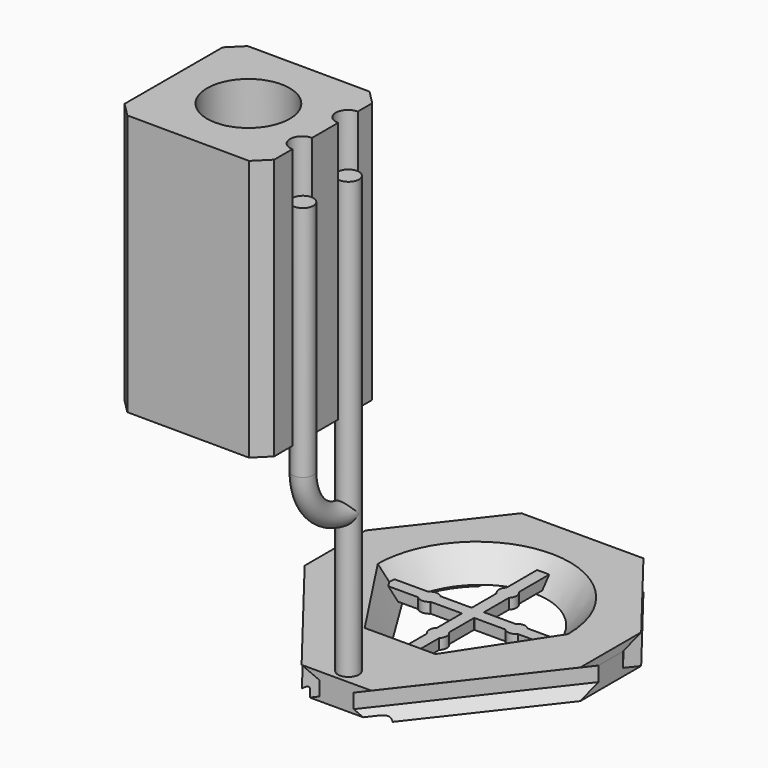
from build123d import *

# Parameters (mm, degrees)
POCKET_DEPTH         = 0.254
POCKET002_DEPTH      = 9.9703958884
POCKET002_DEPTH_BACK = 12.421886656
PAD_DEPTH            = 0.762
SKETCH025_R          = 0.762
PAD001_DEPTH         = 31.75
SKETCH038_R          = 0.762
SKETCH031_W          = 10.922
SKETCH031_H          = 19.05
PAD003_DEPTH         = 5.461
SKETCH033_R          = 3.0099
POCKET004_DEPTH      = 7.239
SKETCH035_R          = 1.651
POCKET005_DEPTH      = 19.0843950009
SKETCH036_R          = 2.7305
POCKET006_DEPTH      = 7.62
SKETCH039_R          = 0.889
POCKET007_DEPTH      = 19.0843950009
CHAMFER_SIZE         = 1.016


with BuildPart() as body:
    # Sketch → AdditiveLoft section 0
    with BuildSketch(Plane.XY):
        Polygon((-4.445, 9.9693957882), (4.445, 9.9693957882), (10.037318, 2.7727994909), (10.037318, -2.7727994909), (2.54, -12.420886556), (-2.54, -12.420886556), (-10.037318, -2.7727994909), (-10.037318, 2.7727994909), align=None)
    # Sketch028 → AdditiveLoft section 1
    with BuildSketch(Plane.XY.offset(0.548386)):
        Polygon((-10.037318, 1.1169878444), (-3.1583048885, 9.9693957884), (3.1583048885, 9.9693957884), (10.037318, 1.1169878444), (10.037318, -1.1169878444), (1.2533048885, -12.420886556), (-1.2533048885, -12.420886556), (-10.037318, -1.1169878444), align=None)
    # Sketch029 → AdditiveLoft section 2
    with BuildSketch(Plane.XY.offset(1.610614)):
        Polygon((-10.037318, 1.1169878444), (-3.1583048885, 9.9693957884), (3.1583048885, 9.9693957884), (10.037318, 1.1169878444), (10.037318, -1.1169878444), (1.2533048885, -12.420886556), (-1.2533048885, -12.420886556), (-10.037318, -1.1169878444), align=None)
    # Sketch019 → AdditiveLoft section 3
    with BuildSketch(Plane.XY.offset(2.159)):
        Polygon((-4.445, 9.9693957881), (4.445, 9.9693957881), (10.0372950691, 2.772829), (10.0372950691, -2.772829), (2.54, -12.420886556), (-2.54, -12.420886556), (-10.0372950691, -2.772829), (-10.0372950691, 2.772829), align=None)
    loft(ruled=True)

    # Sketch013 → SubtractiveLoft section 0
    with BuildSketch(Plane.XY.offset(2.159)):
        with BuildLine():
            Line((-6.928, 0), (-2.5779523071, -6.630990285))
            Line((-2.5779523071, -6.630990285), (2.5779523071, -6.630990285))
            Line((2.5779523071, -6.630990285), (6.928, 0))
            add(Edge.make_bspline(
                [(6.928, 0), (6.928, 7.144), (0, 7.144), (-6.928, 7.144), (-6.928, 0)],
                knots=[4.7123889804, 4.7123889804, 4.7123889804, 6.2831853072, 6.2831853072, 7.853981634, 7.853981634, 7.853981634], degree=2, weights=[1, 0.7071067812, 1, 0.7071067812, 1]))
        make_face()
    # Sketch014 → SubtractiveLoft section 1
    with BuildSketch(Plane(origin=(0, 0, 0), x_dir=(1, 0, 0), z_dir=(0, 0, -1))):
        with BuildLine():
            Line((-4.896, 0), (-1.8850102669, 4.9449640478))
            Line((-1.8850102669, 4.9449640478), (1.8850102669, 4.9449640478))
            Line((1.8850102669, 4.9449640478), (4.896, 0))
            add(Edge.make_bspline(
                [(-4.896, 0), (-4.896, -5.358), (0, -5.358), (4.896, -5.358), (4.896, 0)],
                knots=[4.7123889804, 4.7123889804, 4.7123889804, 6.2831853072, 6.2831853072, 7.853981634, 7.853981634, 7.853981634], degree=2, weights=[1, 0.7071067812, 1, 0.7071067812, 1]))
        make_face()
    loft(mode=Mode.SUBTRACT)

    # Sketch006 (on Face1 of SubtractiveLoft) → Pocket (cut)
    with BuildSketch(Plane(origin=(0, 0, 0), x_dir=(1, 0, 0), z_dir=(0, 0, -1))):
        with BuildLine():
            Line((-5.3856, 0), (-2.0735112936, 5.4394604526))
            Line((-2.0735112936, 5.4394604526), (2.0735112936, 5.4394604526))
            Line((2.0735112936, 5.4394604526), (5.3856, 0))
            add(Edge.make_bspline(
                [(-5.3856, 0), (-5.3856, -5.8938), (0, -5.8938), (5.3856, -5.8938), (5.3856, 0)],
                knots=[4.7123889804, 4.7123889804, 4.7123889804, 6.2831853072, 6.2831853072, 7.853981634, 7.853981634, 7.853981634], degree=2, weights=[1, 0.7071067812, 1, 0.7071067812, 1]))
        make_face()
    extrude(amount=-POCKET_DEPTH, mode=Mode.SUBTRACT)

    # Sketch022 → Pocket002 (cut, two sides)
    with BuildSketch(Plane.XZ) as pocket002_sk:
        with BuildLine():
            ThreePointArc((-2.54, 0.254), (-2.9416092628, 0.1888277885), (-3.302, 0))
            Line((-3.302, 0), (3.302, 0))
            ThreePointArc((3.302, 0), (2.9416092628, 0.1888277885), (2.54, 0.254))
            Line((-2.54, 0.254), (2.54, 0.254))
        make_face()
    extrude(amount=-POCKET002_DEPTH, mode=Mode.SUBTRACT)
    extrude(pocket002_sk.sketch, amount=POCKET002_DEPTH_BACK, mode=Mode.SUBTRACT)

    # Sketch018 → Pad (join)
    with BuildSketch(Plane.XY.offset(0.508)):
        with BuildLine():
            Line((-3.6284807052, 0.4445), (-7.62, 0.4445))
            Line((-7.62, 0.4445), (-7.62, -0.4445))
            Line((-7.62, -0.4445), (-3.6284807052, -0.4445))
            ThreePointArc((-3.6284807052, -0.4445), (-3.175, -0.635), (-2.7215192948, -0.4445))
            Line((-2.7215192948, -0.4445), (-0.4534807052, -0.4445))
            ThreePointArc((-0.4534807052, -0.4445), (-0.4490128061, -0.4490128061), (-0.4445, -0.4534807052))
            Line((-0.4445, -0.4534807052), (-0.4445, -2.7215192948))
            ThreePointArc((-0.4445, -2.7215192948), (-0.635, -3.175), (-0.4445, -3.6284807052))
            Line((-0.4445, -3.6284807052), (-0.4445, -10.16))
            Line((-0.4445, -10.16), (0.4445, -10.16))
            Line((0.4445, -10.16), (0.4445, -3.6284807052))
            ThreePointArc((0.4445, -3.6284807052), (0.635, -3.175), (0.4445, -2.7215192948))
            Line((0.4445, -2.7215192948), (0.4445, -0.4534807052))
            ThreePointArc((0.4445, -0.4534807052), (0.4490128061, -0.4490128061), (0.4534807052, -0.4445))
            Line((0.4534807052, -0.4445), (2.7215192948, -0.4445))
            ThreePointArc((2.7215192948, -0.4445), (3.175, -0.635), (3.6284807052, -0.4445))
            Line((7.62, -0.4445), (3.6284807052, -0.4445))
            Line((7.62, 0.4445), (7.62, -0.4445))
            Line((3.6284807052, 0.4445), (7.62, 0.4445))
            ThreePointArc((3.6284807052, 0.4445), (3.175, 0.635), (2.7215192948, 0.4445))
            Line((0.4534807052, 0.4445), (2.7215192948, 0.4445))
            ThreePointArc((0.4534807052, 0.4445), (0.4490128061, 0.4490128061), (0.4445, 0.4534807052))
            Line((0.4445, 0.4534807052), (0.4445, 2.7215192948))
            ThreePointArc((0.4445, 2.7215192948), (0.635, 3.175), (0.4445, 3.6284807052))
            Line((0.4445, 7.239), (0.4445, 3.6284807052))
            Line((-0.4445, 7.239), (0.4445, 7.239))
            Line((-0.4445, 3.6284807052), (-0.4445, 7.239))
            ThreePointArc((-0.4445, 3.6284807052), (-0.635, 3.175), (-0.4445, 2.7215192948))
            Line((-0.4445, 0.4534807052), (-0.4445, 2.7215192948))
            ThreePointArc((-0.4445, 0.4534807052), (-0.4490128061, 0.4490128061), (-0.4534807052, 0.4445))
            Line((-2.7215192948, 0.4445), (-0.4534807052, 0.4445))
            ThreePointArc((-2.7215192948, 0.4445), (-3.175, 0.635), (-3.6284807052, 0.4445))
        make_face()
    extrude(amount=PAD_DEPTH)

    # Sketch025 (on Face41 of Pad) → Pad001 (join)
    with BuildSketch(Plane.XY.offset(2.159)):
        with Locations((0, -11.3284)):
            Circle(SKETCH025_R)
    extrude(amount=PAD001_DEPTH)

    # AdditivePipe: sweep along a path in Sketch037
    with BuildLine(Plane.YZ) as additivepipe_path:
        ThreePointArc((-11.3284, 12.4883333333), (-14.2619503329, 13.7034496671), (-15.4770666667, 16.637))
        Line((-15.4770666667, 16.637), (-15.4770666667, 33.909))
    # Sketch038 (on Face78 of Pad001) → AdditivePipe (sweep)
    with BuildSketch(Plane.XY.offset(33.909)):
        with Locations((0, -15.4770666667)):
            Circle(SKETCH038_R)
    sweep(path=additivepipe_path.line)


with BuildPart() as body_1:
    # Body placement: moved
    add(body.part.moved(Location((5.461, 0, 0))))


with BuildPart() as attachment_square:
    # Sketch031 → Pad003 (new body, symmetric)
    with BuildSketch(Plane(origin=(0, 0, 0), x_dir=(0.0030576028, 0.999994164, 0.0015241358), z_dir=(0.999994164, -0.0030552726, -0.0015288014))):
        with Locations((-13.572058, 28.194)):
            Rectangle(SKETCH031_W, SKETCH031_H)
    extrude(amount=PAD003_DEPTH, both=True)

    # Sketch033 → Pocket004 (cut)
    with BuildSketch(Plane(origin=(0.0574888784, -0.0576648591, 37.7189121104), x_dir=(-0.0030576028, -0.999994164, -0.0015241358), z_dir=(0.0015241358, -0.0015288014, 0.9999976699))):
        with Locations((13.5720582, 0)):
            Circle(SKETCH033_R)
    extrude(amount=-POCKET004_DEPTH, mode=Mode.SUBTRACT)

    # Sketch035 (on Face1 of Pocket004) → Pocket005 (cut, through all)
    with BuildSketch(Plane(origin=(0.0574888784, -0.0576648591, 37.7189121104), x_dir=(-0.0030576028, -0.999994164, -0.0015241358), z_dir=(0.0015241358, -0.0015288014, 0.9999976699))):
        with Locations((13.5720582, 0)):
            Circle(SKETCH035_R)
    extrude(amount=-POCKET005_DEPTH, mode=Mode.SUBTRACT)

    # Sketch036 (on Face7 of Pocket005) → Pocket006 (cut)
    with BuildSketch(Plane(origin=(0.0284540913, -0.0285411929, 18.6689564991), x_dir=(0.0030576028, 0.999994164, 0.0015241358), z_dir=(-0.0015241358, 0.0015288014, -0.9999976699))):
        with Locations((-13.5720582, 0)):
            Circle(SKETCH036_R)
    extrude(amount=-POCKET006_DEPTH, mode=Mode.SUBTRACT)

    # Sketch039 (on Face7 of Pocket006) → Pocket007 (cut, through all)
    with BuildSketch(Plane(origin=(0.0284540913, -0.0285411929, 18.6689564991), x_dir=(0.0030576028, 0.999994164, 0.0015241358), z_dir=(-0.0015241358, 0.0015288014, -0.9999976699))):
        with Locations((-15.4770666667, 5.461)):
            Circle(SKETCH039_R)
        with Locations((-11.3284, 5.461)):
            Circle(SKETCH039_R)
    extrude(amount=-POCKET007_DEPTH, mode=Mode.SUBTRACT)

    # Chamfer
    chamfer_edges = [attachment_square.edges().sort_by_distance(p)[0] for p in [
        (5.479139, -8.170799, 28.173223),
        (5.445744, -19.092735, 28.156577),
        (-5.442797, -8.137429, 28.189921),
        (-5.476192, -19.059365, 28.173274),
    ]]
    chamfer(chamfer_edges, length=CHAMFER_SIZE)


solid = Compound([body_1.part, attachment_square.part])
